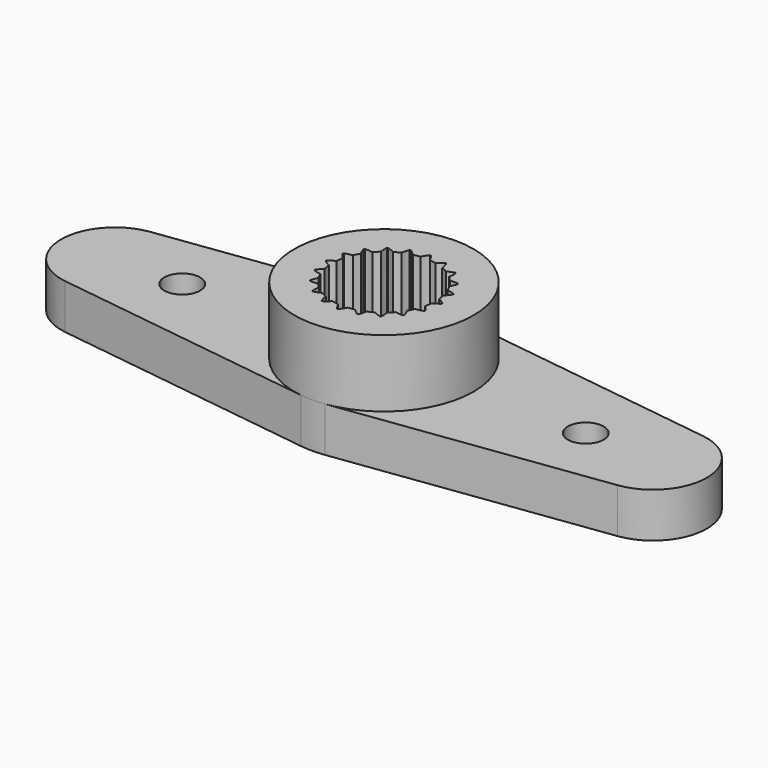
from build123d import *

# Parameters (mm, degrees)
PAD_DEPTH     = 2
SKETCH002_R   = 1.5
SKETCH002_R_2 = 0.8
POCKET_DEPTH  = 4
PAD002_DEPTH  = 3
SKETCH_R      = 4
SKETCH_R_2    = 2.3
PAD001_DEPTH  = 3


with BuildPart() as horn_arm_w_hole:
    # Sketch001 → Pad (new body)
    with BuildSketch(Plane.XY):
        with BuildLine():
            Line((0.533333, 3.964285), (12.32, 2.378571))
            ThreePointArc((12.32, -2.378571), (14.4, 0), (12.32, 2.378571))
            Line((0.533333, -3.964285), (12.32, -2.378571))
            ThreePointArc((-0.533333, -3.964285), (0, -4), (0.533333, -3.964285))
            Line((-12.32, -2.378571), (-0.533333, -3.964285))
            ThreePointArc((-12.32, 2.378571), (-14.4, 0), (-12.32, -2.378571))
            Line((-12.32, 2.378571), (-0.533333, 3.964285))
            ThreePointArc((0.533333, 3.964285), (0, 4), (-0.533333, 3.964285))
        make_face()
    extrude(amount=PAD_DEPTH)

    # Sketch002 → Pocket (cut)
    with BuildSketch(Plane.XY.offset(2)):
        Circle(SKETCH002_R)
        with Locations((9, 0)):
            Circle(SKETCH002_R_2)
        with Locations((-9, 0)):
            Circle(SKETCH002_R_2)
    extrude(amount=-POCKET_DEPTH, mode=Mode.SUBTRACT)


with BuildPart() as inner_gear:
    # InvoluteGear → Pad002 (new body)
    with BuildSketch(Plane(origin=(0, 0, 2), x_dir=(0.987688, 0.156434, 0), z_dir=(0, 0, 1))):
        with BuildLine():
            add(Edge.make_bspline(
                [(2.556794, -0.380757), (2.461096, -0.274165), (2.366271, -0.193908), (2.279946, -0.136901), (2.206833, -0.097844)],
                knots=[0, 0, 0, 0, 0, 1, 1, 1, 1, 1], degree=4))
            ThreePointArc((2.206833, -0.097844), (2.204664, 0), (2.206832, 0.097843))
            add(Edge.make_bspline(
                [(2.206832, 0.097843), (2.279946, 0.136901), (2.366271, 0.193908), (2.461096, 0.274165), (2.556794, 0.380757)],
                knots=[0, 0, 0, 0, 0, 1, 1, 1, 1, 1], degree=4))
            ThreePointArc((2.556794, 0.380757), (2.556318, 0.404881), (2.549316, 0.427972))
            add(Edge.make_bspline(
                [(2.549316, 0.427972), (2.425363, 0.499774), (2.310378, 0.5468), (2.210662, 0.574342), (2.129058, 0.588894)],
                knots=[0, 0, 0, 0, 0, 1, 1, 1, 1, 1], degree=4))
            ThreePointArc((2.129058, 0.588894), (2.096761, 0.681279), (2.068587, 0.775003))
            add(Edge.make_bspline(
                [(2.068587, 0.775003), (2.126053, 0.834742), (2.190536, 0.915636), (2.25592, 1.021267), (2.313996, 1.152214)],
                knots=[0, 0, 0, 0, 0, 1, 1, 1, 1, 1], degree=4))
            ThreePointArc((2.313996, 1.152214), (2.306088, 1.17501), (2.292293, 1.194807))
            add(Edge.make_bspline(
                [(2.292293, 1.194807), (2.152219, 1.224792), (2.02833, 1.233984), (1.924983, 1.229364), (1.842876, 1.217987)],
                knots=[0, 0, 0, 0, 0, 1, 1, 1, 1, 1], degree=4))
            ThreePointArc((1.842876, 1.217987), (1.783611, 1.295869), (1.727854, 1.3763))
            add(Edge.make_bspline(
                [(1.727854, 1.3763), (1.764047, 1.450874), (1.800377, 1.547734), (1.829918, 1.6684), (1.844687, 1.810885)],
                knots=[0, 0, 0, 0, 0, 1, 1, 1, 1, 1], degree=4))
            ThreePointArc((1.844687, 1.810885), (1.830122, 1.830122), (1.810885, 1.844687))
            add(Edge.make_bspline(
                [(1.810885, 1.844687), (1.6684, 1.829918), (1.547734, 1.800377), (1.450874, 1.764047), (1.376301, 1.727854)],
                knots=[0, 0, 0, 0, 0, 1, 1, 1, 1, 1], degree=4))
            ThreePointArc((1.376301, 1.727854), (1.295869, 1.783611), (1.217986, 1.842875))
            add(Edge.make_bspline(
                [(1.217986, 1.842875), (1.229364, 1.924983), (1.233984, 2.02833), (1.224792, 2.152219), (1.194807, 2.292293)],
                knots=[0, 0, 0, 0, 0, 1, 1, 1, 1, 1], degree=4))
            ThreePointArc((1.194807, 2.292293), (1.17501, 2.306088), (1.152214, 2.313996))
            add(Edge.make_bspline(
                [(1.152214, 2.313996), (1.021267, 2.25592), (0.915636, 2.190536), (0.834742, 2.126053), (0.775004, 2.068587)],
                knots=[0, 0, 0, 0, 0, 1, 1, 1, 1, 1], degree=4))
            ThreePointArc((0.775004, 2.068587), (0.681279, 2.09676), (0.588894, 2.129057))
            add(Edge.make_bspline(
                [(0.588894, 2.129057), (0.574342, 2.210662), (0.5468, 2.310378), (0.499774, 2.425363), (0.427972, 2.549316)],
                knots=[0, 0, 0, 0, 0, 1, 1, 1, 1, 1], degree=4))
            ThreePointArc((0.427972, 2.549316), (0.404881, 2.556318), (0.380757, 2.556794))
            add(Edge.make_bspline(
                [(0.380757, 2.556794), (0.274165, 2.461096), (0.193908, 2.366271), (0.136901, 2.279946), (0.097844, 2.206833)],
                knots=[0, 0, 0, 0, 0, 1, 1, 1, 1, 1], degree=4))
            ThreePointArc((0.097844, 2.206833), (0, 2.204664), (-0.097843, 2.206832))
            add(Edge.make_bspline(
                [(-0.097843, 2.206832), (-0.136901, 2.279946), (-0.193908, 2.366271), (-0.274165, 2.461096), (-0.380757, 2.556794)],
                knots=[0, 0, 0, 0, 0, 1, 1, 1, 1, 1], degree=4))
            ThreePointArc((-0.380757, 2.556794), (-0.404881, 2.556318), (-0.427972, 2.549316))
            add(Edge.make_bspline(
                [(-0.427972, 2.549316), (-0.499774, 2.425363), (-0.5468, 2.310378), (-0.574342, 2.210662), (-0.588894, 2.129058)],
                knots=[0, 0, 0, 0, 0, 1, 1, 1, 1, 1], degree=4))
            ThreePointArc((-0.588894, 2.129058), (-0.681279, 2.096761), (-0.775003, 2.068587))
            add(Edge.make_bspline(
                [(-0.775003, 2.068587), (-0.834742, 2.126053), (-0.915636, 2.190536), (-1.021267, 2.25592), (-1.152214, 2.313996)],
                knots=[0, 0, 0, 0, 0, 1, 1, 1, 1, 1], degree=4))
            ThreePointArc((-1.152214, 2.313996), (-1.17501, 2.306088), (-1.194807, 2.292293))
            add(Edge.make_bspline(
                [(-1.194807, 2.292293), (-1.224792, 2.152219), (-1.233984, 2.02833), (-1.229364, 1.924983), (-1.217987, 1.842876)],
                knots=[0, 0, 0, 0, 0, 1, 1, 1, 1, 1], degree=4))
            ThreePointArc((-1.217987, 1.842876), (-1.295869, 1.783611), (-1.3763, 1.727854))
            add(Edge.make_bspline(
                [(-1.3763, 1.727854), (-1.450874, 1.764047), (-1.547734, 1.800377), (-1.6684, 1.829918), (-1.810885, 1.844687)],
                knots=[0, 0, 0, 0, 0, 1, 1, 1, 1, 1], degree=4))
            ThreePointArc((-1.810885, 1.844687), (-1.830122, 1.830122), (-1.844687, 1.810885))
            add(Edge.make_bspline(
                [(-1.844687, 1.810885), (-1.829918, 1.6684), (-1.800377, 1.547734), (-1.764047, 1.450874), (-1.727854, 1.376301)],
                knots=[0, 0, 0, 0, 0, 1, 1, 1, 1, 1], degree=4))
            ThreePointArc((-1.727854, 1.376301), (-1.783611, 1.295869), (-1.842875, 1.217986))
            add(Edge.make_bspline(
                [(-1.842875, 1.217986), (-1.924983, 1.229364), (-2.02833, 1.233984), (-2.152219, 1.224792), (-2.292293, 1.194807)],
                knots=[0, 0, 0, 0, 0, 1, 1, 1, 1, 1], degree=4))
            ThreePointArc((-2.292293, 1.194807), (-2.306088, 1.17501), (-2.313996, 1.152214))
            add(Edge.make_bspline(
                [(-2.313996, 1.152214), (-2.25592, 1.021267), (-2.190536, 0.915636), (-2.126053, 0.834742), (-2.068587, 0.775004)],
                knots=[0, 0, 0, 0, 0, 1, 1, 1, 1, 1], degree=4))
            ThreePointArc((-2.068587, 0.775004), (-2.09676, 0.681279), (-2.129057, 0.588894))
            add(Edge.make_bspline(
                [(-2.129057, 0.588894), (-2.210662, 0.574342), (-2.310378, 0.5468), (-2.425363, 0.499774), (-2.549316, 0.427972)],
                knots=[0, 0, 0, 0, 0, 1, 1, 1, 1, 1], degree=4))
            ThreePointArc((-2.549316, 0.427972), (-2.556318, 0.404881), (-2.556794, 0.380757))
            add(Edge.make_bspline(
                [(-2.556794, 0.380757), (-2.461096, 0.274165), (-2.366271, 0.193908), (-2.279946, 0.136901), (-2.206833, 0.097844)],
                knots=[0, 0, 0, 0, 0, 1, 1, 1, 1, 1], degree=4))
            ThreePointArc((-2.206833, 0.097844), (-2.204664, 0), (-2.206832, -0.097843))
            add(Edge.make_bspline(
                [(-2.206832, -0.097843), (-2.279946, -0.136901), (-2.366271, -0.193908), (-2.461096, -0.274165), (-2.556794, -0.380757)],
                knots=[0, 0, 0, 0, 0, 1, 1, 1, 1, 1], degree=4))
            ThreePointArc((-2.556794, -0.380757), (-2.556318, -0.404881), (-2.549316, -0.427972))
            add(Edge.make_bspline(
                [(-2.549316, -0.427972), (-2.425363, -0.499774), (-2.310378, -0.5468), (-2.210662, -0.574342), (-2.129058, -0.588894)],
                knots=[0, 0, 0, 0, 0, 1, 1, 1, 1, 1], degree=4))
            ThreePointArc((-2.129058, -0.588894), (-2.096761, -0.681279), (-2.068587, -0.775003))
            add(Edge.make_bspline(
                [(-2.068587, -0.775003), (-2.126053, -0.834742), (-2.190536, -0.915636), (-2.25592, -1.021267), (-2.313996, -1.152214)],
                knots=[0, 0, 0, 0, 0, 1, 1, 1, 1, 1], degree=4))
            ThreePointArc((-2.313996, -1.152214), (-2.306088, -1.17501), (-2.292293, -1.194807))
            add(Edge.make_bspline(
                [(-2.292293, -1.194807), (-2.152219, -1.224792), (-2.02833, -1.233984), (-1.924983, -1.229364), (-1.842876, -1.217987)],
                knots=[0, 0, 0, 0, 0, 1, 1, 1, 1, 1], degree=4))
            ThreePointArc((-1.842876, -1.217987), (-1.783611, -1.295869), (-1.727854, -1.3763))
            add(Edge.make_bspline(
                [(-1.727854, -1.3763), (-1.764047, -1.450874), (-1.800377, -1.547734), (-1.829918, -1.6684), (-1.844687, -1.810885)],
                knots=[0, 0, 0, 0, 0, 1, 1, 1, 1, 1], degree=4))
            ThreePointArc((-1.844687, -1.810885), (-1.830122, -1.830122), (-1.810885, -1.844687))
            add(Edge.make_bspline(
                [(-1.810885, -1.844687), (-1.6684, -1.829918), (-1.547734, -1.800377), (-1.450874, -1.764047), (-1.376301, -1.727854)],
                knots=[0, 0, 0, 0, 0, 1, 1, 1, 1, 1], degree=4))
            ThreePointArc((-1.376301, -1.727854), (-1.295869, -1.783611), (-1.217986, -1.842875))
            add(Edge.make_bspline(
                [(-1.217986, -1.842875), (-1.229364, -1.924983), (-1.233984, -2.02833), (-1.224792, -2.152219), (-1.194807, -2.292293)],
                knots=[0, 0, 0, 0, 0, 1, 1, 1, 1, 1], degree=4))
            ThreePointArc((-1.194807, -2.292293), (-1.17501, -2.306088), (-1.152214, -2.313996))
            add(Edge.make_bspline(
                [(-1.152214, -2.313996), (-1.021267, -2.25592), (-0.915636, -2.190536), (-0.834742, -2.126053), (-0.775004, -2.068587)],
                knots=[0, 0, 0, 0, 0, 1, 1, 1, 1, 1], degree=4))
            ThreePointArc((-0.775004, -2.068587), (-0.681279, -2.09676), (-0.588894, -2.129057))
            add(Edge.make_bspline(
                [(-0.588894, -2.129057), (-0.574342, -2.210662), (-0.5468, -2.310378), (-0.499774, -2.425363), (-0.427972, -2.549316)],
                knots=[0, 0, 0, 0, 0, 1, 1, 1, 1, 1], degree=4))
            ThreePointArc((-0.427972, -2.549316), (-0.404881, -2.556318), (-0.380757, -2.556794))
            add(Edge.make_bspline(
                [(-0.380757, -2.556794), (-0.274165, -2.461096), (-0.193908, -2.366271), (-0.136901, -2.279946), (-0.097844, -2.206833)],
                knots=[0, 0, 0, 0, 0, 1, 1, 1, 1, 1], degree=4))
            ThreePointArc((-0.097844, -2.206833), (0, -2.204664), (0.097843, -2.206832))
            add(Edge.make_bspline(
                [(0.097843, -2.206832), (0.136901, -2.279946), (0.193908, -2.366271), (0.274165, -2.461096), (0.380757, -2.556794)],
                knots=[0, 0, 0, 0, 0, 1, 1, 1, 1, 1], degree=4))
            ThreePointArc((0.380757, -2.556794), (0.404881, -2.556318), (0.427972, -2.549316))
            add(Edge.make_bspline(
                [(0.427972, -2.549316), (0.499774, -2.425363), (0.5468, -2.310378), (0.574342, -2.210662), (0.588894, -2.129058)],
                knots=[0, 0, 0, 0, 0, 1, 1, 1, 1, 1], degree=4))
            ThreePointArc((0.588894, -2.129058), (0.681279, -2.096761), (0.775003, -2.068587))
            add(Edge.make_bspline(
                [(0.775003, -2.068587), (0.834742, -2.126053), (0.915636, -2.190536), (1.021267, -2.25592), (1.152214, -2.313996)],
                knots=[0, 0, 0, 0, 0, 1, 1, 1, 1, 1], degree=4))
            ThreePointArc((1.152214, -2.313996), (1.17501, -2.306088), (1.194807, -2.292293))
            add(Edge.make_bspline(
                [(1.194807, -2.292293), (1.224792, -2.152219), (1.233984, -2.02833), (1.229364, -1.924983), (1.217987, -1.842876)],
                knots=[0, 0, 0, 0, 0, 1, 1, 1, 1, 1], degree=4))
            ThreePointArc((1.217987, -1.842876), (1.295869, -1.783611), (1.3763, -1.727854))
            add(Edge.make_bspline(
                [(1.3763, -1.727854), (1.450874, -1.764047), (1.547734, -1.800377), (1.6684, -1.829918), (1.810885, -1.844687)],
                knots=[0, 0, 0, 0, 0, 1, 1, 1, 1, 1], degree=4))
            ThreePointArc((1.810885, -1.844687), (1.830122, -1.830122), (1.844687, -1.810885))
            add(Edge.make_bspline(
                [(1.844687, -1.810885), (1.829918, -1.6684), (1.800377, -1.547734), (1.764047, -1.450874), (1.727854, -1.376301)],
                knots=[0, 0, 0, 0, 0, 1, 1, 1, 1, 1], degree=4))
            ThreePointArc((1.727854, -1.376301), (1.783611, -1.295869), (1.842875, -1.217986))
            add(Edge.make_bspline(
                [(1.842875, -1.217986), (1.924983, -1.229364), (2.02833, -1.233984), (2.152219, -1.224792), (2.292293, -1.194807)],
                knots=[0, 0, 0, 0, 0, 1, 1, 1, 1, 1], degree=4))
            ThreePointArc((2.292293, -1.194807), (2.306088, -1.17501), (2.313996, -1.152214))
            add(Edge.make_bspline(
                [(2.313996, -1.152214), (2.25592, -1.021267), (2.190536, -0.915636), (2.126053, -0.834742), (2.068587, -0.775004)],
                knots=[0, 0, 0, 0, 0, 1, 1, 1, 1, 1], degree=4))
            ThreePointArc((2.068587, -0.775004), (2.09676, -0.681279), (2.129057, -0.588894))
            add(Edge.make_bspline(
                [(2.129057, -0.588894), (2.210662, -0.574342), (2.310378, -0.5468), (2.425363, -0.499774), (2.549316, -0.427972)],
                knots=[0, 0, 0, 0, 0, 1, 1, 1, 1, 1], degree=4))
            ThreePointArc((2.549316, -0.427972), (2.556318, -0.404881), (2.556794, -0.380757))
        make_face()
    extrude(amount=PAD002_DEPTH)


with BuildPart() as fusion:
    # Sketch → Pad001 (new body)
    with BuildSketch(Plane.XY.offset(2)):
        Circle(SKETCH_R)
        Circle(SKETCH_R_2, mode=Mode.SUBTRACT)
    extrude(amount=PAD001_DEPTH)

    # Cut: cut Inner Gear
    add(inner_gear.part, mode=Mode.SUBTRACT)

    # Fusion: union Horn Arm w Hole
    add(horn_arm_w_hole.part)


solid = fusion.part
